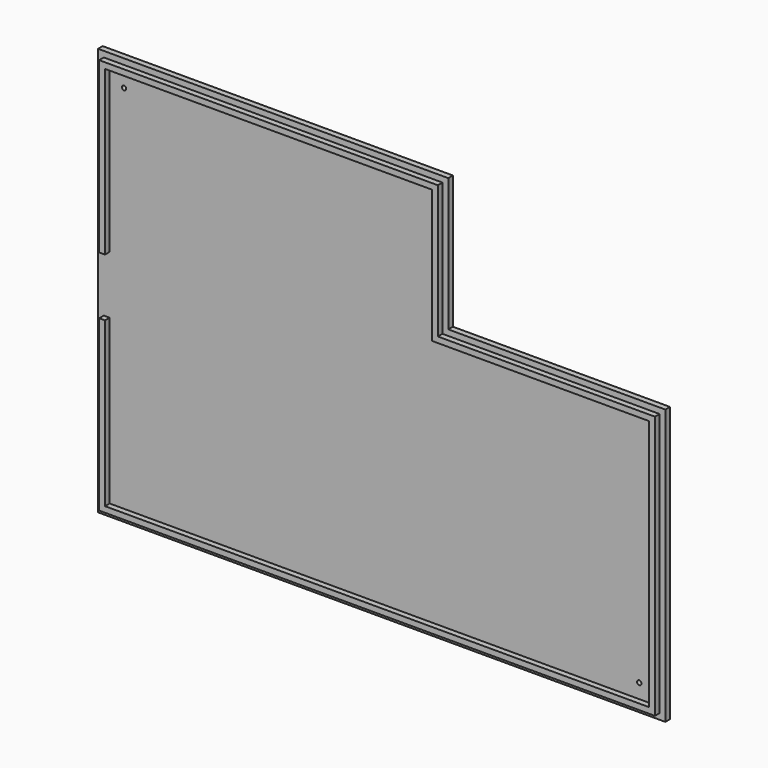
from build123d import *

# Parameters (mm, degrees)
F0_W     = 75
F0_H     = 95
F1_DEPTH = 2
F2_W     = 188
F2_H     = 2
F3_DEPTH = 2
F5_D     = 1.5
F5_DEPTH = 2
F6_W     = 2
F6_H     = 20
F7_DEPTH = 25


with BuildPart() as f1:
    # F0 (on Front) → F1 (new body)
    with BuildSketch(Plane.XZ):
        Polygon((-127.335447, -62.266689), (-6.335447, -62.266689), (-6.335447, 32.733311), (-6.335447, 78.733311), (-127.335447, 78.733311), align=None)
        with Locations((31.164553, -14.766689)):
            Rectangle(F0_W, F0_H)
    extrude(amount=F1_DEPTH)

    # F2 (on face) → F3 (join)
    with BuildSketch(Plane.XZ.offset(2)):
        Polygon((-123.335447, 76.733311), (-125.335447, 76.733311), (-125.335447, -60.266689), (-123.335447, -60.266689), (-123.335447, -58.266689), (-123.335447, 74.733311), align=None)
        Polygon((-8.335447, 76.733311), (-123.335447, 76.733311), (-123.335447, 74.733311), (-10.335447, 74.733311), (-8.335447, 74.733311), align=None)
        with Locations((-29.335447, -59.266689)):
            Rectangle(F2_W, F2_H)
        Polygon((-8.335447, 74.733311), (-10.335447, 74.733311), (-10.335447, 28.733311), (-8.335447, 28.733311), (-8.335447, 30.733311), align=None)
        Polygon((64.664553, -58.266689), (64.664553, -60.266689), (66.664553, -60.266689), (66.664553, 28.733311), (64.664553, 28.733311), align=None)
        Polygon((66.664553, 30.733311), (-8.335447, 30.733311), (-8.335447, 28.733311), (64.664553, 28.733311), (66.664553, 28.733311), align=None)
    extrude(amount=F3_DEPTH)

    # F5
    with Locations(Plane.XZ.offset(2)):
        with Locations((-118.335447, 69.733311), (59.664553, -53.266689)):
            Hole(F5_D / 2, depth=F5_DEPTH)

    # F6 (on face) → F7 (cut)
    with BuildSketch(Plane(origin=(-125.335447, 0, 0), x_dir=(0, -1, 0), z_dir=(-1, 0, 0))):
        with Locations((3, 8.233311)):
            Rectangle(F6_W, F6_H)
    extrude(amount=-F7_DEPTH, mode=Mode.SUBTRACT)


solid = f1.part
